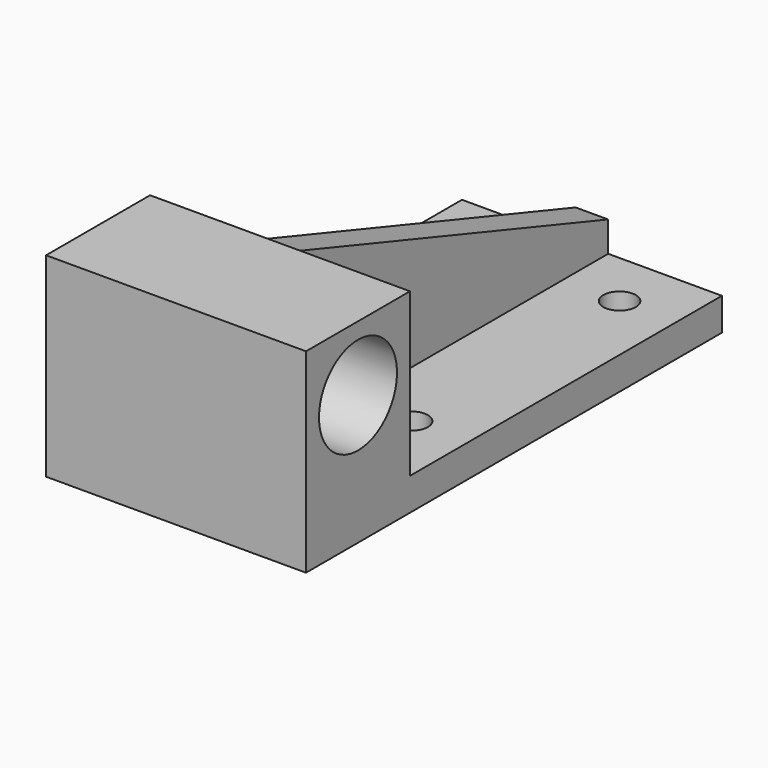
from build123d import *

# Parameters (mm, degrees)
F1_DEPTH      = 25.4
F1_DEPTH_BACK = 25.4
F4_DEPTH      = 3.175
F4_DEPTH_BACK = 3.175
F6_D          = 19.05
F8_D          = 6.35


with BuildPart() as f1:
    # F0 (on Right) → F1 (new body, two sides)
    with BuildSketch(Plane.YZ) as f1_sk:
        Polygon((-5.696102, 18.957503), (-31.096102, 18.957503), (-31.096102, -19.142497), (70.503898, -19.142497), (70.503898, -12.792497), (-5.696102, -12.792497), align=None)
    extrude(amount=F1_DEPTH)
    extrude(f1_sk.sketch, amount=-F1_DEPTH_BACK)

    # F3 (on Right) → F4 (join, two sides)
    with BuildSketch(Plane.YZ) as f4_sk:
        Polygon((-5.919815, -13.259767), (70.482805, -13.227087), (70.482805, -6.877087), (-5.919815, 18.714948), align=None)
    extrude(amount=F4_DEPTH)
    extrude(f4_sk.sketch, amount=-F4_DEPTH_BACK)

    # F6 (through all)
    with Locations(Plane.YZ.offset(25.4)):
        with Locations((-18.396102, 6.257503)):
            Hole(F6_D / 2)

    # F8 (through all)
    with Locations(Plane.XY.offset(-12.792497)):
        with Locations((-14.2875, 8.591398), (-14.2875, 59.391398), (14.2875, 8.591398), (14.2875, 59.391398)):
            Hole(F8_D / 2)


solid = f1.part
